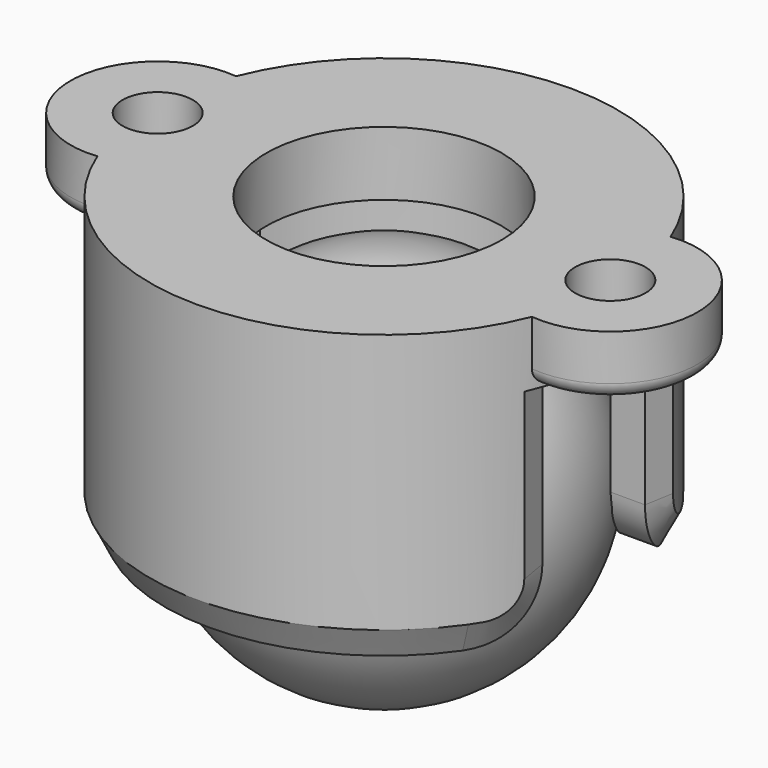
from build123d import *

# Parameters (mm, degrees)
SKETCH_R        = 7.65
PAD_DEPTH       = 9.5
SKETCH001_R     = 6.1
POCKET_DEPTH    = 7.4
SKETCH002_R     = 3.85
POCKET001_DEPTH = 5
SKETCH003_R     = 2.85
PAD001_DEPTH    = 2
SKETCH004_W     = 25
SKETCH004_H     = 4.2
POCKET002_DEPTH = 7.4
FILLET_R        = 2
CHAMFER_SIZE2   = 0.5
CHAMFER_SIZE    = 1
SKETCH005_R     = 1.15
POCKET003_DEPTH = 5
FILLET001_R     = 0.5


with BuildPart() as shell:
    # Sketch → Pad (new body)
    with BuildSketch(Plane.XY):
        Circle(SKETCH_R)
    extrude(amount=-PAD_DEPTH)

    # Sketch001 (on Face3 of Pad) → Pocket (cut)
    with BuildSketch(Plane(origin=(0, 0, -9.5), x_dir=(1, 0, 0), z_dir=(0, 0, -1))):
        Circle(SKETCH001_R)
    extrude(amount=-POCKET_DEPTH, mode=Mode.SUBTRACT)

    # Sketch002 (on Face2 of Pocket) → Pocket001 (cut)
    with BuildSketch(Plane.XY):
        Circle(SKETCH002_R)
    extrude(amount=-POCKET001_DEPTH, mode=Mode.SUBTRACT)

    # Sketch003 → Pad001 (join)
    with BuildSketch(Plane.XY):
        with Locations((-7.4, 0)):
            Circle(SKETCH003_R)
        with Locations((7.4, 0)):
            Circle(SKETCH003_R)
    extrude(amount=-PAD001_DEPTH)

    # Sketch004 (on Face12 of Pad001) → Pocket002 (cut)
    with BuildSketch(Plane(origin=(0, 0, -9.5), x_dir=(1, 0, 0), z_dir=(0, 0, -1))):
        Rectangle(SKETCH004_W, SKETCH004_H)
    extrude(amount=-POCKET002_DEPTH, mode=Mode.SUBTRACT)

    # Fillet
    fillet_edges = [shell.edges().sort_by_distance(p)[0] for p in [
        (-6.541624, 2.1, -9.5),
        (-6.541624, -2.1, -9.5),
        (6.541624, 2.1, -9.5),
        (6.541624, -2.1, -9.5),
    ]]
    fillet(fillet_edges, radius=FILLET_R)

    # Chamfer
    chamfer_edges = [shell.edges().sort_by_distance(p)[0] for p in [
        (0, -7.65, -9.5),
        (0, 7.65, -9.5),
    ]]
    chamfer_side = shell.faces().sort_by_distance((7.576174, -1.060232, -2.076369))[0]
    chamfer(chamfer_edges, length=CHAMFER_SIZE, length2=CHAMFER_SIZE2, reference=chamfer_side)

    # Sketch005 (on Face16 of Chamfer) → Pocket003 (cut)
    with BuildSketch(Plane.XY):
        with Locations((-7.4, 0)):
            Circle(SKETCH005_R)
        with Locations((7.4, 0)):
            Circle(SKETCH005_R)
    extrude(amount=-POCKET003_DEPTH, mode=Mode.SUBTRACT)

    # Fillet001
    fillet001_edges = [shell.edges().sort_by_distance(p)[0] for p in [
        (-10.25, 0, -2),
        (9.308259, 2.116848, -2),
        (9.308259, -2.116848, -2),
    ]]
    fillet(fillet001_edges, radius=FILLET001_R)


with BuildPart() as ball:
    # Sketch006 → Revolution (revolve)
    with BuildSketch(Plane.YZ):
        with BuildLine():
            ThreePointArc((0, -1.75), (-6.125, -7.875), (0, -14))
            Line((0, -1.75), (0, -14))
        make_face()
    revolve(axis=Axis((0, 0, 0), (0, 0, 1)))


solid = Compound([shell.part, ball.part])
